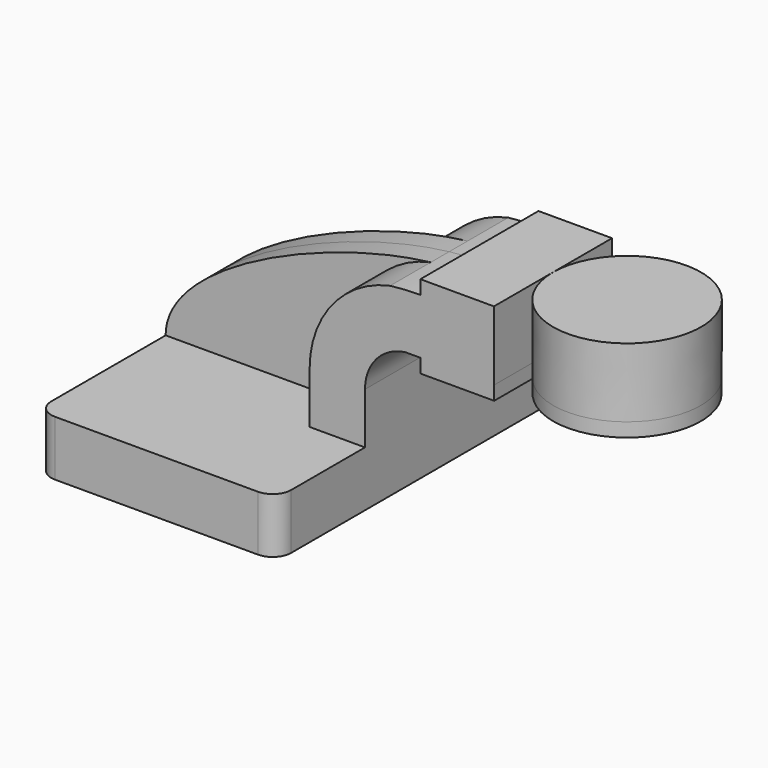
from build123d import *

# Parameters (mm, degrees)
F1_DEPTH = 63.5
F2_DEPTH = 25.4
F3_DEPTH = 7.9375
F5_R     = 6.35


with BuildPart() as f1:
    # F0 (on Front) → F1 (new body, symmetric)
    with BuildSketch(Plane.XZ):
        Polygon((-41.275, 9.525), (-41.275, -9.525), (41.275, -9.525), (41.275, 9.525), (22.225, 9.525), align=None)
    extrude(amount=F1_DEPTH, both=True)

    # F0 (on Front) → F2 (join, symmetric)
    with BuildSketch(Plane.XZ):
        with BuildLine():
            Line((22.225, 9.525), (41.275, 9.525))
            Line((41.275, 9.525), (41.275, 27.125136))
            ThreePointArc((41.275, 27.125136), (45.250799, 37.633449), (55.186765, 42.878273))
            Line((55.186765, 42.878273), (60.325, 42.878273))
            Line((60.325, 42.878273), (60.325, 61.928273))
            Line((60.325, 61.928273), (60.065007, 61.928273))
            add(Edge.make_bspline(
                [(49.911332, 61.291747), (53.516179, 61.710333), (56.925903, 61.929341), (60.065007, 61.928273)],
                knots=[103.69328, 103.69328, 103.69328, 103.69328, 114.087248, 114.087248, 114.087248, 114.087248], degree=3))
            ThreePointArc((49.911332, 61.291747), (30.015464, 49.113146), (22.225, 27.125136))
            Line((22.225, 27.125136), (22.225, 9.525))
        make_face()
        Polygon((60.325, 66.675), (60.325, 61.928273), (60.325, 42.878273), (85.711101, 42.878273), (85.641883, 66.675), align=None)
        Polygon((85.711101, 42.878273), (60.325, 42.878273), (60.325, 38.1), (85.725, 38.1), align=None)
    extrude(amount=F2_DEPTH, both=True)

    # F0 (on Front) → F3 (join, symmetric)
    with BuildSketch(Plane.XZ):
        with BuildLine():
            add(Edge.make_bspline(
                [(-41.275, 9.525), (-41.434549, 33.076549), (13.94832, 57.115811), (49.911332, 61.291747)],
                knots=[0, 0, 0, 0, 103.69328, 103.69328, 103.69328, 103.69328], degree=3))
            Line((-41.275, 9.525), (22.225, 9.525))
            Line((22.225, 9.525), (22.225, 27.125136))
            ThreePointArc((22.225, 27.125136), (30.015464, 49.113146), (49.911332, 61.291747))
        make_face()
    extrude(amount=F3_DEPTH, both=True)

    # F5
    f5_edges = [f1.edges().sort_by_distance(p)[0] for p in [
        (41.275, -63.5, 0),
        (-41.275, -63.5, 0),
        (-41.275, 63.5, 0),
        (41.275, 63.5, 0),
    ]]
    fillet(f5_edges, radius=F5_R)


with BuildPart() as f4:
    # F0 (on Front) → F4 (revolve)
    with BuildSketch(Plane.XZ):
        Polygon((85.641883, 66.675), (85.711101, 42.878273), (85.725, 38.1), (111.125, 38.1), (111.125, 66.675), align=None)
    revolve(axis=Axis((111.125, 0, 52.3875), (0, 0, -1)))


solid = Compound([f1.part, f4.part])
